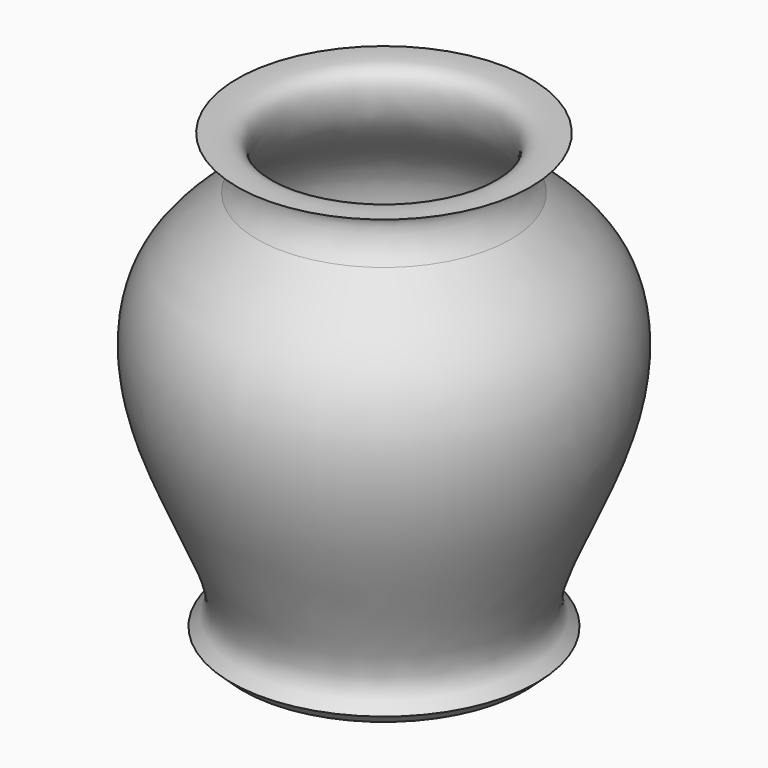
from build123d import *


with BuildPart() as f2:
    # F0 (on Front) → F2 (revolve)
    with BuildSketch(Plane.XZ):
        with BuildLine():
            Line((93.1320749223, -86.5970775485), (93.1320749223, -97.9736670852))
            Line((93.1320749223, -97.9736670852), (159.6862971783, -97.9736670852))
            Line((159.6862971783, -97.9736670852), (165.0467514992, -92.9482355714))
            add(Edge.make_bspline(
                [(165.0467514992, -92.9482355714), (161.8265002946, -89.8200934888), (150.9992020681, -79.245354563), (193.9199538264, -7.5505895103), (192.2251946095, 56.0970543346), (164.4293404176, 76.754001231), (152.8782159428, 87.0120535426)],
                knots=[0, 0, 0, 0, 0.1374322853, 0.4617492672, 0.7500559171, 1, 1, 1, 1], degree=3))
            add(Edge.make_bspline(
                [(152.8782159428, 87.0120535426), (148.6430192924, 91.0986772598), (142.6626931275, 107.314953239), (157.3226003205, 109.7611519521), (162.2070796951, 111.7500744908)],
                knots=[0, 0, 0, 0, 0.5115573712, 1, 1, 1, 1], degree=3))
            add(Edge.make_bspline(
                [(153.7009328604, -86.5970775485), (152.8392583014, -82.8511545627), (149.7921633489, -69.6081833407), (192.7885112923, 21.0644858983), (175.9026724629, 63.2108130179), (143.6892495895, 82.0512120438), (140.8020907701, 112.9423494164), (155.5354787751, 112.0620060977), (162.2070796951, 111.7500744908)],
                knots=[0, 0, 0, 0, 0.1111689965, 0.3918628314, 0.5781793556, 0.747728757, 0.8816489333, 1, 1, 1, 1], degree=3))
            Line((153.7009328604, -86.5970775485), (93.1320749223, -86.5970775485))
        make_face()
    revolve(axis=Axis((93.077160418, 0, 10.0782588124), (0, 0, 1)))


solid = f2.part
